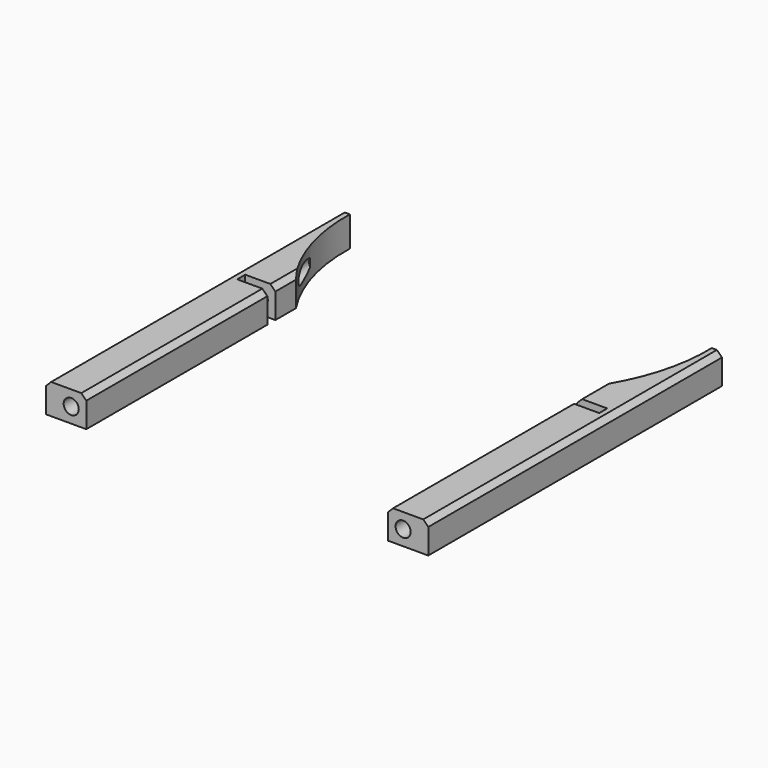
from build123d import *

# Parameters (mm, degrees)
CYLINDER2840_R     = 1.5
CYLINDER2840_DEPTH = 100
CYLINDER2836_R     = 1.5
CYLINDER2836_DEPTH = 100
BOX1059_W          = 6
BOX1059_H          = 2
BOX1059_DEPTH      = 6
BOX1061_W          = 6
BOX1061_H          = 2
BOX1061_DEPTH      = 6
BOX1054_W          = 15
BOX1054_H          = 13.5
BOX1054_DEPTH      = 32
BOX1055_W          = 15
BOX1055_H          = 13.5
BOX1055_DEPTH      = 32
CYLINDER2817_R     = 36
CYLINDER2817_DEPTH = 16
BOX1057_W          = 8
BOX1057_H          = 80
BOX1057_DEPTH      = 6
CHAMFER154_SIZE    = 1
CHAMFER149_SIZE    = 1
CYLINDER2815_R     = 36
CYLINDER2815_DEPTH = 16
BOX1058_W          = 8
BOX1058_H          = 80
BOX1058_DEPTH      = 6
CHAMFER150_SIZE    = 1
CHAMFER156_SIZE    = 1


with BuildPart() as obj1:
    # Cylinder2840 → Cylinder2840 (new body)
    with BuildSketch(Plane(origin=(33, -10, 8), x_dir=(1, 0, 0), z_dir=(0, -1, 0))):
        Circle(CYLINDER2840_R)
    extrude(amount=CYLINDER2840_DEPTH)


with BuildPart() as compound1262:
    # Cylinder2836 → Cylinder2836 (new body)
    with BuildSketch(Plane(origin=(-33, -10, 8), x_dir=(1, 0, 0), z_dir=(0, -1, 0))):
        Circle(CYLINDER2836_R)
    extrude(amount=CYLINDER2836_DEPTH)

    # Compound1262: union obj1
    add(obj1.part)


with BuildPart() as compound1262_1:
    # Compound1262 placement: moved
    add(compound1262.part.moved(Location((0, -1, 0))))


with BuildPart() as krychle1058:
    # Box1059 → Box1059 (new body)
    with BuildSketch(Plane(origin=(-36, -27, 5), x_dir=(1, 0, 0), z_dir=(0, 0, 1))):
        with Locations((3, 1)):
            Rectangle(BOX1059_W, BOX1059_H)
    extrude(amount=BOX1059_DEPTH)


with BuildPart() as compound1258:
    # Box1061 → Box1061 (new body)
    with BuildSketch(Plane(origin=(30, -27, 5), x_dir=(1, 0, 0), z_dir=(0, 0, 1))):
        with Locations((3, 1)):
            Rectangle(BOX1061_W, BOX1061_H)
    extrude(amount=BOX1061_DEPTH)

    # Compound1258: union Krychle1058
    add(krychle1058.part)


with BuildPart() as krychle1053:
    # Box1054 → Box1054 (new body)
    with BuildSketch(Plane(origin=(-38, -68, 5), x_dir=(1, 0, 0), z_dir=(0, 0, 1))):
        with Locations((7.5, 6.75)):
            Rectangle(BOX1054_W, BOX1054_H)
    extrude(amount=BOX1054_DEPTH)


with BuildPart() as compound1260:
    # Box1055 → Box1055 (new body)
    with BuildSketch(Plane(origin=(23, -68, 5), x_dir=(1, 0, 0), z_dir=(0, 0, 1))):
        with Locations((7.5, 6.75)):
            Rectangle(BOX1055_W, BOX1055_H)
    extrude(amount=BOX1055_DEPTH)

    # Compound1260: union Krychle1053
    add(krychle1053.part)


with BuildPart() as compound1260_1:
    # Compound1260 placement: moved
    add(compound1260.part.moved(Location((0, -17.5, 0))))


with BuildPart() as obj2:
    # Cylinder2817 → Cylinder2817 (new body)
    with BuildSketch(Plane.XY):
        Circle(CYLINDER2817_R)
    extrude(amount=CYLINDER2817_DEPTH)


with BuildPart() as cut1076:
    # Box1057 → Box1057 (new body)
    with BuildSketch(Plane(origin=(-38, -79, 5), x_dir=(1, 0, 0), z_dir=(0, 0, 1))):
        with Locations((4, 40)):
            Rectangle(BOX1057_W, BOX1057_H)
    extrude(amount=BOX1057_DEPTH)

    # Chamfer154
    chamfer154_edges = [cut1076.edges().sort_by_distance(p)[0] for p in [
        (-38, -39, 11),
    ]]
    chamfer(chamfer154_edges, length=CHAMFER154_SIZE)

    # Chamfer149
    chamfer149_edges = [cut1076.edges().sort_by_distance(p)[0] for p in [
        (-30, -39, 11),
    ]]
    chamfer(chamfer149_edges, length=CHAMFER149_SIZE)

    # Cut1076: cut obj2
    add(obj2.part, mode=Mode.SUBTRACT)


with BuildPart() as obj3:
    # Cylinder2815 → Cylinder2815 (new body)
    with BuildSketch(Plane.XY):
        Circle(CYLINDER2815_R)
    extrude(amount=CYLINDER2815_DEPTH)


with BuildPart() as cut1070:
    # Box1058 → Box1058 (new body)
    with BuildSketch(Plane(origin=(30, -79, 5), x_dir=(1, 0, 0), z_dir=(0, 0, 1))):
        with Locations((4, 40)):
            Rectangle(BOX1058_W, BOX1058_H)
    extrude(amount=BOX1058_DEPTH)

    # Chamfer150
    chamfer150_edges = [cut1070.edges().sort_by_distance(p)[0] for p in [
        (38, -39, 11),
    ]]
    chamfer(chamfer150_edges, length=CHAMFER150_SIZE)

    # Chamfer156
    chamfer156_edges = [cut1070.edges().sort_by_distance(p)[0] for p in [
        (30, -39, 11),
    ]]
    chamfer(chamfer156_edges, length=CHAMFER156_SIZE)

    # Cut1074: cut obj3
    add(obj3.part, mode=Mode.SUBTRACT)

    # Compound1256: union Cut1076
    add(cut1076.part)

    # Cut1078: cut Compound1260
    add(compound1260_1.part, mode=Mode.SUBTRACT)

    # Cut1086: cut Compound1258
    add(compound1258.part, mode=Mode.SUBTRACT)

    # Cut1070: cut Compound1262
    add(compound1262_1.part, mode=Mode.SUBTRACT)


solid = cut1070.part
